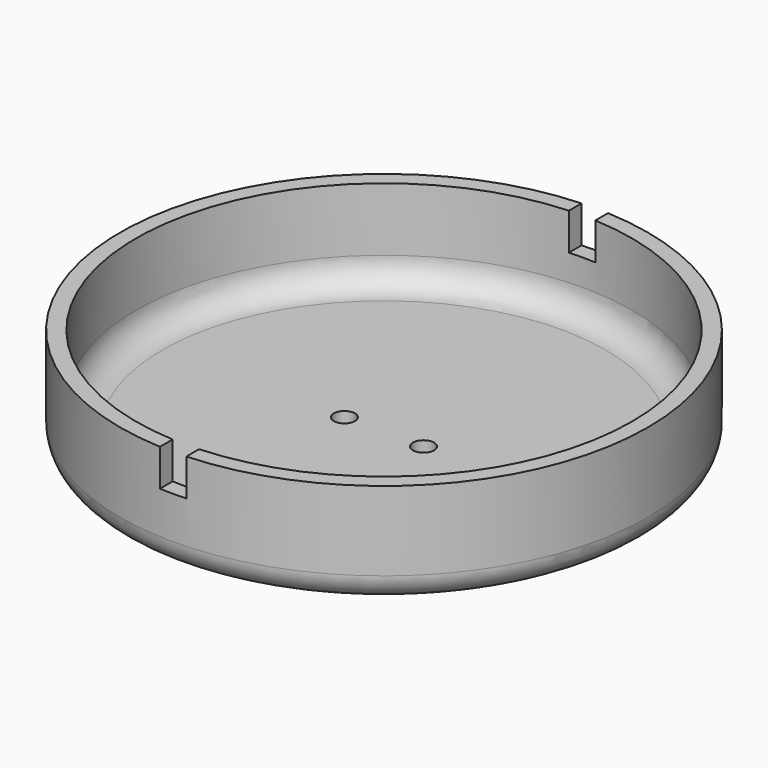
from build123d import *

# Parameters (mm, degrees)
SKETCH_R             = 50
PAD_DEPTH            = 20
FILLET_R             = 5
SKETCH001_R          = 47
POCKET_DEPTH         = 17
FILLET001_R          = 5
SKETCH002_R          = 2
POCKET001_DEPTH      = 5
SKETCH003_W          = 7
SKETCH003_H          = 5
POCKET002_DEPTH      = 50.001
POCKET002_DEPTH_BACK = -50.001


with BuildPart() as part:
    # Sketch → Pad (new body)
    with BuildSketch(Plane.XY):
        Circle(SKETCH_R)
    extrude(amount=PAD_DEPTH)

    # Fillet
    fillet_edges = [part.edges().sort_by_distance(p)[0] for p in [
        (-50, 0, 0),
    ]]
    fillet(fillet_edges, radius=FILLET_R)

    # Sketch001 (on Face3 of Fillet) → Pocket (cut)
    with BuildSketch(Plane.XY.offset(20)):
        Circle(SKETCH001_R)
    extrude(amount=-POCKET_DEPTH, mode=Mode.SUBTRACT)

    # Fillet001
    fillet001_edges = [part.edges().sort_by_distance(p)[0] for p in [
        (-47, 0, 3),
    ]]
    fillet(fillet001_edges, radius=FILLET001_R)

    # Sketch002 (on Face4 of Fillet001) → Pocket001 (cut)
    with BuildSketch(Plane.XY.offset(3)):
        with Locations((-7.5, 0)):
            Circle(SKETCH002_R)
        with Locations((7.5, 0)):
            Circle(SKETCH002_R)
    extrude(amount=-POCKET001_DEPTH, mode=Mode.SUBTRACT)

    # Sketch003 (on DatumPlane) → Pocket002 (cut, two sides)
    with BuildSketch(Plane(origin=(0, 0, 5), x_dir=(0, 0, -1), z_dir=(0, 1, 0))) as pocket002_sk:
        with Locations((-11.5, 0)):
            Rectangle(SKETCH003_W, SKETCH003_H)
    extrude(amount=-POCKET002_DEPTH, mode=Mode.SUBTRACT)
    extrude(pocket002_sk.sketch, amount=-POCKET002_DEPTH_BACK, mode=Mode.SUBTRACT)


solid = part.part
